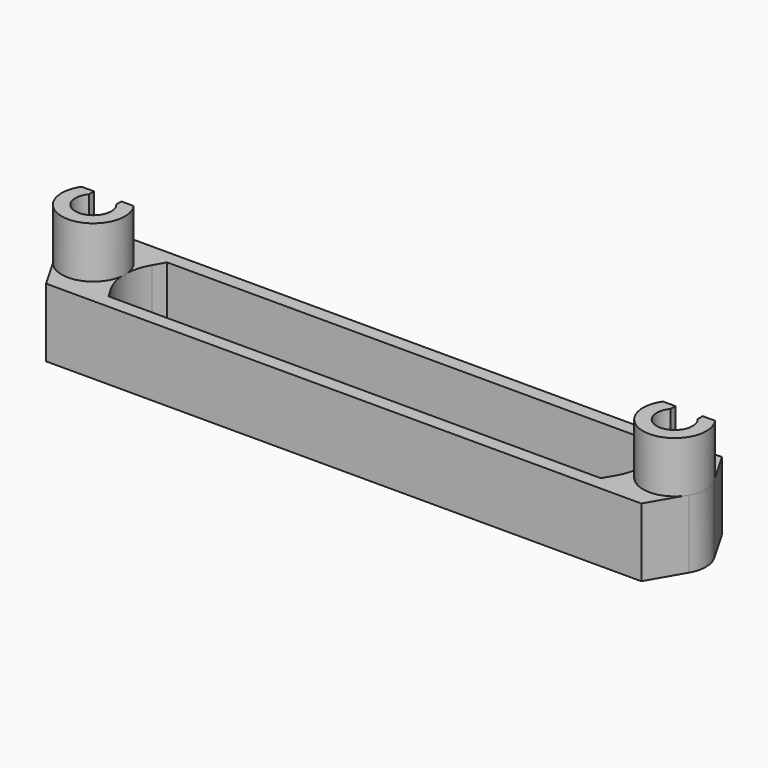
from build123d import *

# Parameters (mm, degrees)
F1_DEPTH = 20.0152
F3_DEPTH = 15


with BuildPart() as f1:
    # F0 (on Top) → F1 (new body)
    with BuildSketch(Plane.XY):
        with BuildLine():
            Line((87.031118, 14.732), (-87.031118, 14.732))
            Line((-87.031118, 14.732), (-92.902482, 4.5625))
            ThreePointArc((-92.902482, 4.5625), (-94.125, 0), (-92.902482, -4.5625))
            Line((-92.902482, -4.5625), (-87.031118, -14.732))
            Line((-87.031118, -14.732), (87.031118, -14.732))
            Line((87.031118, -14.732), (92.902482, -4.5625))
            ThreePointArc((92.902482, -4.5625), (94.125, 0), (92.902482, 4.5625))
            Line((92.902482, 4.5625), (87.031118, 14.732))
        make_face()
        with BuildLine():
            Line((-73.865381, 7.5), (-71.999385, 10.732))
            Line((-71.999385, 10.732), (71.999385, 10.732))
            Line((71.999385, 10.732), (73.865381, 7.5))
            ThreePointArc((73.865381, 7.5), (75.875, 0), (73.865381, -7.5))
            Line((73.865381, -7.5), (71.999385, -10.732))
            Line((71.999385, -10.732), (-71.999385, -10.732))
            Line((-71.999385, -10.732), (-73.865381, -7.5))
            ThreePointArc((-73.865381, -7.5), (-75.875, 0), (-73.865381, 7.5))
        make_face(mode=Mode.SUBTRACT)
    extrude(amount=F1_DEPTH)

    # F2 (on face) → F3 (join)
    with BuildSketch(Plane.XY.offset(20.0152)):
        with BuildLine():
            Line((-89, 5.25), (-92.615773, 5.25))
            ThreePointArc((-92.615773, 5.25), (-85, -9.25), (-77.384227, 5.25))
            Line((-77.384227, 5.25), (-81, 5.25))
            Line((-81, 5.25), (-81, 3.400368))
            ThreePointArc((-81, 3.400368), (-85, -5.25), (-89, 3.400368))
            Line((-89, 3.400368), (-89, 5.25))
        make_face()
        with BuildLine():
            Line((81, 3.400368), (81, 5.25))
            Line((81, 5.25), (77.384227, 5.25))
            ThreePointArc((77.384227, 5.25), (85, -9.25), (92.615773, 5.25))
            Line((92.615773, 5.25), (89, 5.25))
            Line((89, 5.25), (89, 3.400368))
            ThreePointArc((89, 3.400368), (85, -5.25), (81, 3.400368))
        make_face()
    extrude(amount=F3_DEPTH)


solid = f1.part
